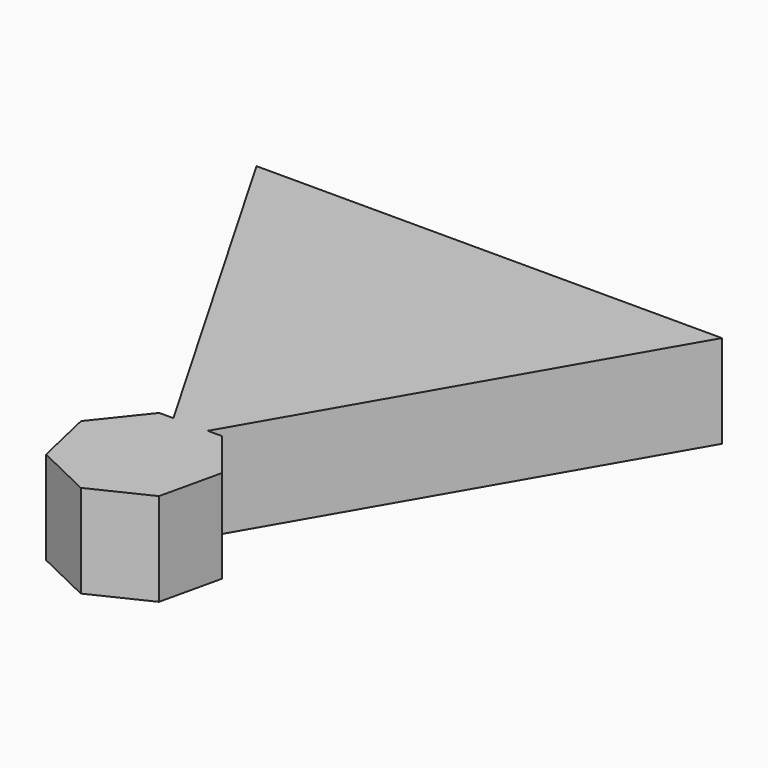
from build123d import *

# Parameters (mm, degrees)
F1_DEPTH = 10


with BuildPart() as f1:
    # F0 (on Top) → F1 (new body)
    with BuildSketch(Plane.XY):
        Polygon((1.8466618501, -25.6690013107), (25, 14.4337567297), (-25, 14.4337567297), (-1.8466618501, -25.6690013107), align=None)
        Polygon((3.3649527384, -25.6690013107), (1.8466618501, -25.6690013107), (0, -28.8675134595), (-1.8466618501, -25.6690013107), (-3.3649527384, -25.6690013107), (-7.5609801708, -30.9306532865), (-6.0634353186, -37.4918259823), (0, -40.4118225345), (6.0634353186, -37.4918259823), (7.5609801708, -30.9306532865), align=None)
        Polygon((0, -28.8675134595), (1.8466618501, -25.6690013107), (-1.8466618501, -25.6690013107), align=None)
    extrude(amount=F1_DEPTH)


solid = f1.part
